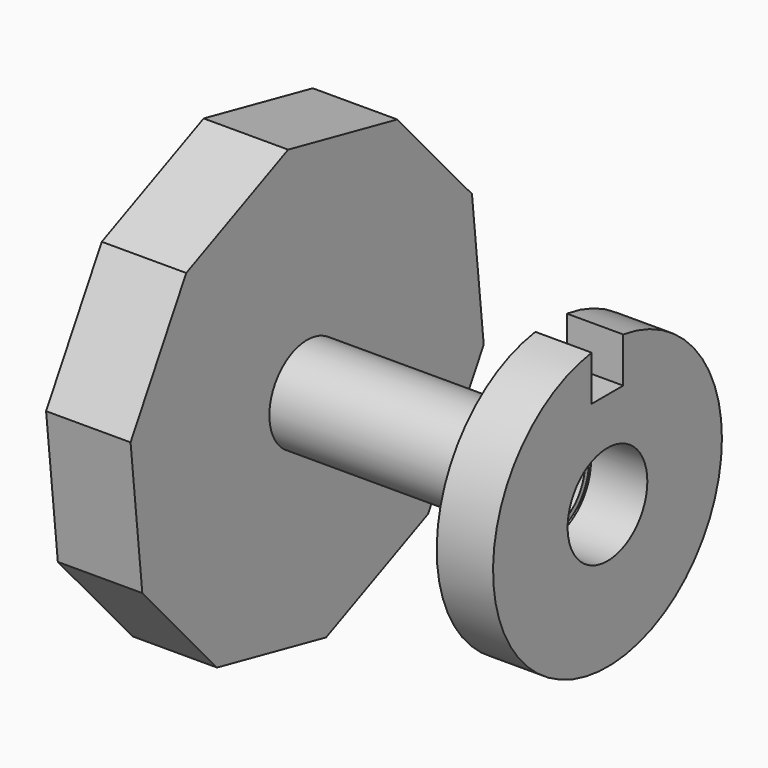
from build123d import *

# Parameters (mm, degrees)
F1_DEPTH = 15
F2_R     = 7.5
F3_DEPTH = 25.4
F2_R_2   = 8.386183
F4_DEPTH = 43.330219
F5_R     = 8.846213
F6_DEPTH = 10


with BuildPart() as f1:
    # F0 (on Right) → F1 (new body)
    with BuildSketch(Plane.YZ):
        Polygon((26.829948, -29.749192), (39.19202, -8.297354), (36.584073, 16.323791), (20.002253, 34.709803), (-4.219748, 39.83785), (-26.829948, 29.749192), (-39.19202, 8.297354), (-36.584073, -16.323791), (-20.002253, -34.709803), (4.219748, -39.83785), align=None)
    extrude(amount=F1_DEPTH)

    # F2 (on face) → F3 (cut)
    with BuildSketch(Plane.YZ.offset(15)):
        Circle(F2_R)
    extrude(amount=-F3_DEPTH, mode=Mode.SUBTRACT)

    # F2 (on face) → F4 (join)
    with BuildSketch(Plane.YZ.offset(15)):
        Circle(F2_R_2)
        Circle(F2_R, mode=Mode.SUBTRACT)
    extrude(amount=F4_DEPTH)


with BuildPart() as f6:
    # F5 (on face) → F6 (new body)
    with BuildSketch(Plane.YZ.offset(58.330219)):
        with BuildLine():
            ThreePointArc((-3.507358, 25.156678), (-16.674428, -19.160466), (25.4, 0))
            ThreePointArc((25.4, 0), (19.155588, 16.680031), (3.492642, 25.158725))
            Line((3.492642, 25.158725), (3.492642, 17.158725))
            Line((3.492642, 17.158725), (-3.507358, 17.158725))
            Line((-3.507358, 17.158725), (-3.507358, 25.156678))
        make_face()
        Circle(F5_R, mode=Mode.SUBTRACT)
    extrude(amount=F6_DEPTH)


solid = Compound([f1.part, f6.part])
